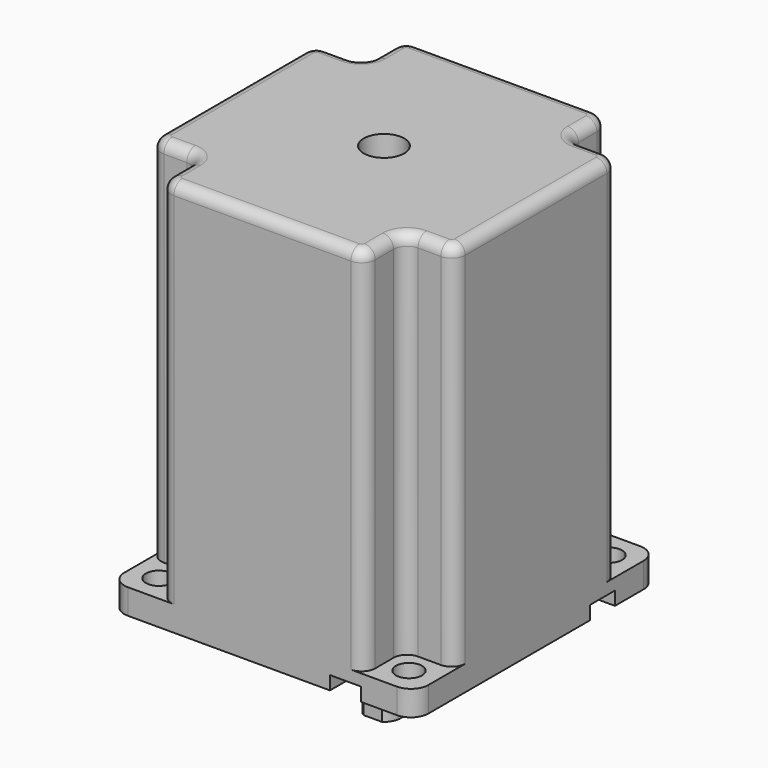
from build123d import *

# Parameters (mm, degrees)
F0_R      = 2.4509487717
F1_DEPTH  = 4.7244
F2_R      = 19.05
F3_DEPTH  = 1.524
F5_DEPTH  = 2.54
F7_DEPTH  = 5.842
F8_DEPTH  = 52.9844
F9_DEPTH  = 10.795
F10_R     = 2.032
F12_R     = 3.81
F13_DEPTH = 75.8698
F16_R     = 3.81
F17_DEPTH = 63.5
F18_R     = 3.175
F19_DEPTH = 25.4
F21_DEPTH = 11.5824


with BuildPart() as f1:
    # F0 (on Top) → F1 (new body)
    with BuildSketch(Plane.XY):
        with BuildLine():
            Line((25.273, 28.575), (-25.273, 28.575))
            ThreePointArc((-25.273, 28.575), (-27.6078665915, 27.6078665915), (-28.575, 25.273))
            Line((-28.575, 25.273), (-28.575, -25.273))
            ThreePointArc((-28.575, -25.273), (-27.6078665915, -27.6078665915), (-25.273, -28.575))
            Line((-25.273, -28.575), (25.273, -28.575))
            ThreePointArc((25.273, -28.575), (27.6078665915, -27.6078665915), (28.575, -25.273))
            Line((28.575, -25.273), (28.575, 25.273))
            ThreePointArc((28.575, 25.273), (27.6078665915, 27.6078665915), (25.273, 28.575))
        make_face()
        with Locations((-23.495, -23.495)):
            Circle(F0_R, mode=Mode.SUBTRACT)
        with Locations((23.495, -23.495)):
            Circle(F0_R, mode=Mode.SUBTRACT)
        with Locations((-23.495, 23.495)):
            Circle(F0_R, mode=Mode.SUBTRACT)
        with Locations((23.495, 23.495)):
            Circle(F0_R, mode=Mode.SUBTRACT)
    extrude(amount=-F1_DEPTH)

    # F2 (on face) → F3 (join)
    with BuildSketch(Plane(origin=(0, 0, -4.7244), x_dir=(1, 0, 0), z_dir=(0, 0, -1))):
        Circle(F2_R)
    extrude(amount=F3_DEPTH)

    # F4 (on face) → F5 (cut)
    with BuildSketch(Plane(origin=(0, 0, -4.7244), x_dir=(1, 0, 0), z_dir=(0, 0, -1))):
        with BuildLine():
            Line((-28.575, 12.7), (-25.019, 12.7))
            ThreePointArc((-25.019, 12.7), (-22.098, 15.621), (-25.019, 18.542))
            Line((-25.019, 18.542), (-28.575, 18.542))
            Line((-28.575, 18.542), (-28.575, 12.7))
        make_face()
        with BuildLine():
            Line((28.575, -12.7), (25.019, -12.7))
            ThreePointArc((25.019, -12.7), (22.098, -15.621), (25.019, -18.542))
            Line((25.019, -18.542), (28.575, -18.542))
            Line((28.575, -18.542), (28.575, -12.7))
        make_face()
        with BuildLine():
            Line((12.7, 28.575), (12.7, 25.019))
            ThreePointArc((12.7, 25.019), (15.621, 22.098), (18.542, 25.019))
            Line((18.542, 25.019), (18.542, 28.575))
            Line((18.542, 28.575), (12.7, 28.575))
        make_face()
        with BuildLine():
            ThreePointArc((-12.7, -25.019), (-15.621, -22.098), (-18.542, -25.019))
            Line((-18.542, -25.019), (-18.542, -28.575))
            Line((-18.542, -28.575), (-12.7, -28.575))
            Line((-12.7, -28.575), (-12.7, -25.019))
        make_face()
    extrude(amount=-F5_DEPTH, mode=Mode.SUBTRACT)

    # F6 (on face) → F7 (join)
    with BuildSketch(Plane.XY):
        with BuildLine():
            Line((-21.717, 19.177), (-26.035, 19.177))
            ThreePointArc((-26.035, 19.177), (-27.8310512242, 18.4330512242), (-28.575, 16.637))
            Line((-28.575, 16.637), (-28.575, 0))
            Line((-28.575, 0), (-28.575, -16.637))
            ThreePointArc((-28.575, -16.637), (-27.8310512242, -18.4330512242), (-26.035, -19.177))
            Line((-26.035, -19.177), (-21.717, -19.177))
            ThreePointArc((-21.717, -19.177), (-19.9209487758, -19.9209487758), (-19.177, -21.717))
            Line((-19.177, -21.717), (-19.177, -26.035))
            ThreePointArc((-19.177, -26.035), (-18.4330512242, -27.8310512242), (-16.637, -28.575))
            Line((-16.637, -28.575), (16.637, -28.575))
            ThreePointArc((16.637, -28.575), (18.4330512242, -27.8310512242), (19.177, -26.035))
            Line((19.177, -26.035), (19.177, -21.717))
            ThreePointArc((19.177, -21.717), (19.9209487758, -19.9209487758), (21.717, -19.177))
            Line((21.717, -19.177), (26.035, -19.177))
            ThreePointArc((26.035, -19.177), (27.8310512242, -18.4330512242), (28.575, -16.637))
            Line((28.575, -16.637), (28.575, 0))
            Line((28.575, 0), (28.575, 16.637))
            ThreePointArc((28.575, 16.637), (27.8310512242, 18.4330512242), (26.035, 19.177))
            Line((26.035, 19.177), (21.717, 19.177))
            ThreePointArc((21.717, 19.177), (19.9209487758, 19.9209487758), (19.177, 21.717))
            Line((19.177, 21.717), (19.177, 26.035))
            ThreePointArc((19.177, 26.035), (18.4330512242, 27.8310512242), (16.637, 28.575))
            Line((16.637, 28.575), (-16.637, 28.575))
            ThreePointArc((-16.637, 28.575), (-18.4330512242, 27.8310512242), (-19.177, 26.035))
            Line((-19.177, 26.035), (-19.177, 21.717))
            ThreePointArc((-19.177, 21.717), (-19.9209487758, 19.9209487758), (-21.717, 19.177))
        make_face()
    extrude(amount=F7_DEPTH)

    # F8 (add): a face of the model
    f8_faces = [f1.faces().sort_by_distance(p)[0] for p in [
        (0, 0, 5.842),
    ]]
    extrude(f8_faces, amount=F8_DEPTH)

    # F9 (add): a face of the model
    f9_faces = [f1.faces().sort_by_distance(p)[0] for p in [
        (0, 0, 58.8264),
    ]]
    extrude(f9_faces, amount=F9_DEPTH)

    # F10
    f10_edges = [f1.edges().sort_by_distance(p)[0] for p in [
        (-28.575, 0, 69.6214),
    ]]
    fillet(f10_edges, radius=F10_R)

    # F12 (on face) → F13 (cut, through all)
    with BuildSketch(Plane(origin=(0, 0, -6.2484), x_dir=(1, 0, 0), z_dir=(0, 0, -1))):
        Circle(F12_R)
    extrude(amount=-F13_DEPTH, mode=Mode.SUBTRACT)

    # F16 (on offset) → F17 (join)
    with BuildSketch(Plane(origin=(0, 0, 1.3716), x_dir=(1, 0, 0), z_dir=(0, 0, -1))):
        Circle(F16_R)
    extrude(amount=-F17_DEPTH)

    # F18 (on offset) → F19 (join)
    with BuildSketch(Plane(origin=(0, 0, 1.3716), x_dir=(1, 0, 0), z_dir=(0, 0, -1))):
        Circle(F18_R)
    extrude(amount=F19_DEPTH)

    # F20 (on face) → F21 (cut)
    with BuildSketch(Plane(origin=(0, 0, -24.0284), x_dir=(1, 0, 0), z_dir=(0, 0, -1))):
        Polygon((-5.7085081935, 6.1885123141), (-5.7085081935, 2.667), (7.1385717019, 2.667), (7.1947467513, 2.667), (7.1947467513, 6.1885123141), align=None)
    extrude(amount=-F21_DEPTH, mode=Mode.SUBTRACT)


solid = f1.part
